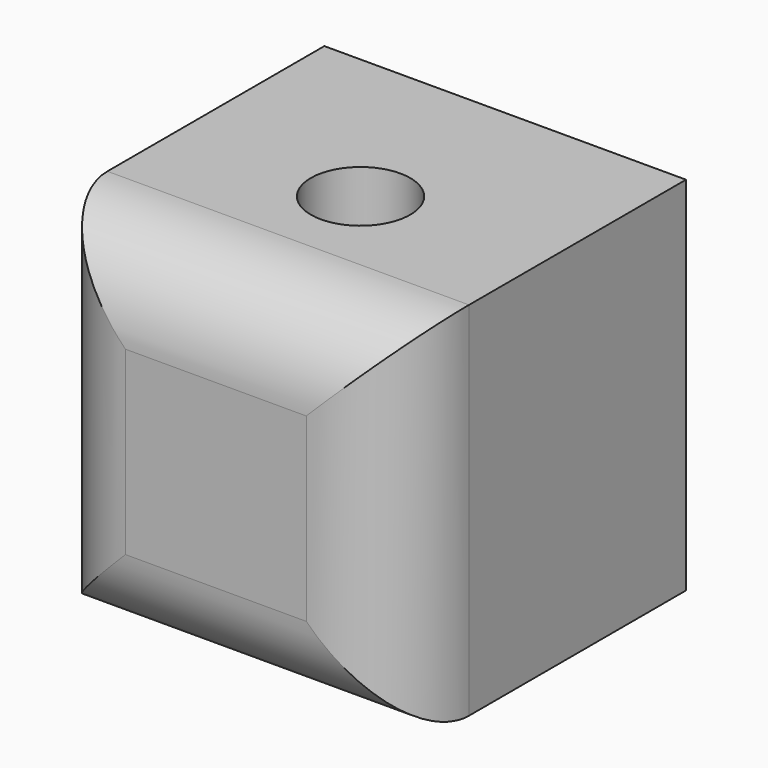
from build123d import *

# Parameters (mm, degrees)
F0_W          = 40
F0_H          = 40
F1_DEPTH      = 20
F1_DEPTH_BACK = 20
F3_D          = 11
F4_R          = 10


with BuildPart() as f1:
    # F0 (on Top) → F1 (new body, two sides)
    with BuildSketch(Plane.XY) as f1_sk:
        Rectangle(F0_W, F0_H)
    extrude(amount=F1_DEPTH)
    extrude(f1_sk.sketch, amount=-F1_DEPTH_BACK)

    # F3 (through all)
    with Locations(Plane.XY.offset(20)):
        with Locations((0, 0)):
            Hole(F3_D / 2)

    # F4
    f4_edges = [f1.edges().sort_by_distance(p)[0] for p in [
        (0, -20, -20),
        (20, -20, 0),
        (-20, -20, 0),
        (0, -20, 20),
    ]]
    fillet(f4_edges, radius=F4_R)


solid = f1.part
